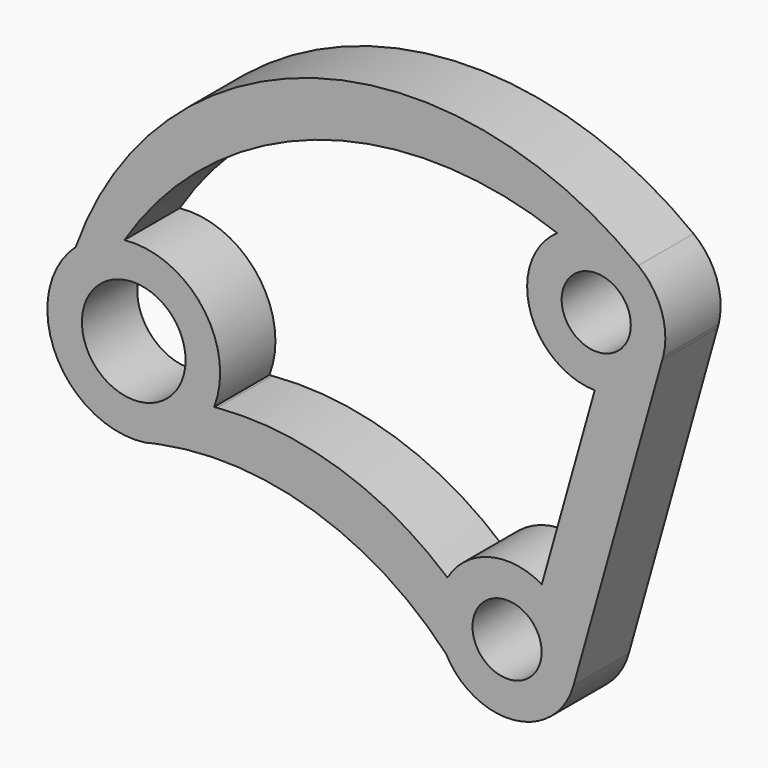
from build123d import *

# Parameters (mm, degrees)
F0_R     = 381
F0_R_2   = 254
F1_DEPTH = 508


with BuildPart() as f1:
    # F0 (on Front) → F1 (new body)
    with BuildSketch(Plane.XZ):
        with BuildLine():
            ThreePointArc((-285.308635, 2445.080977), (-298.773109, 2735.544249), (-469.336331, 2971.040304))
            ThreePointArc((-469.336331, 2971.040304), (-2848.559206, 3411.104515), (-4604.457378, 1746.418476))
            ThreePointArc((-4604.457378, 1746.418476), (-4753.571158, 1008.163428), (-4092.764105, 646.79177))
            ThreePointArc((-4092.764105, 646.79177), (-4040.196873, 659.175373), (-3987.351772, 670.313719))
            ThreePointArc((-3987.351772, 670.313719), (-2848.634489, 606.251084), (-1882.590652, 0))
            ThreePointArc((-1882.590652, 0), (-1379.696976, -266.903091), (-944.880725, 100.621244))
            Line((-944.880725, 100.621244), (-293.647549, 2415.440169))
            Line((-293.647549, 2415.440169), (-285.308635, 2445.080977))
        make_face()
        with Locations((-4177.851109, 1276.065321)):
            Circle(F0_R, mode=Mode.SUBTRACT)
        with Locations((-1433.89692, 238.197262)):
            Circle(F0_R_2, mode=Mode.SUBTRACT)
        with BuildLine():
            Line((-789.463946, 2059.896749), (-1178.435465, 677.291152))
            ThreePointArc((-1178.435465, 677.291152), (-1562.738639, 729.586935), (-1871.940837, 495.454967))
            ThreePointArc((-1871.940837, 495.454967), (-2662.65612, 941.19204), (-3564.502877, 1044.073642))
            ThreePointArc((-3564.502877, 1044.073642), (-3576.044275, 1043.045968), (-3587.580316, 1041.959808))
            ThreePointArc((-3587.580316, 1041.959808), (-3585.729661, 1046.680947), (-3583.916766, 1051.416715))
            ThreePointArc((-3583.916766, 1051.416715), (-3675.873036, 1664.965069), (-4246.991373, 1907.290022))
            ThreePointArc((-4246.991373, 1907.290022), (-2847.161042, 3012.079645), (-1064.047477, 2987.767488))
            ThreePointArc((-1064.047477, 2987.767488), (-1265.387852, 2423.621168), (-789.463946, 2059.896749))
        make_face(mode=Mode.SUBTRACT)
        with Locations((-778.269658, 2567.773395)):
            Circle(F0_R_2, mode=Mode.SUBTRACT)
    extrude(amount=F1_DEPTH)


solid = f1.part
